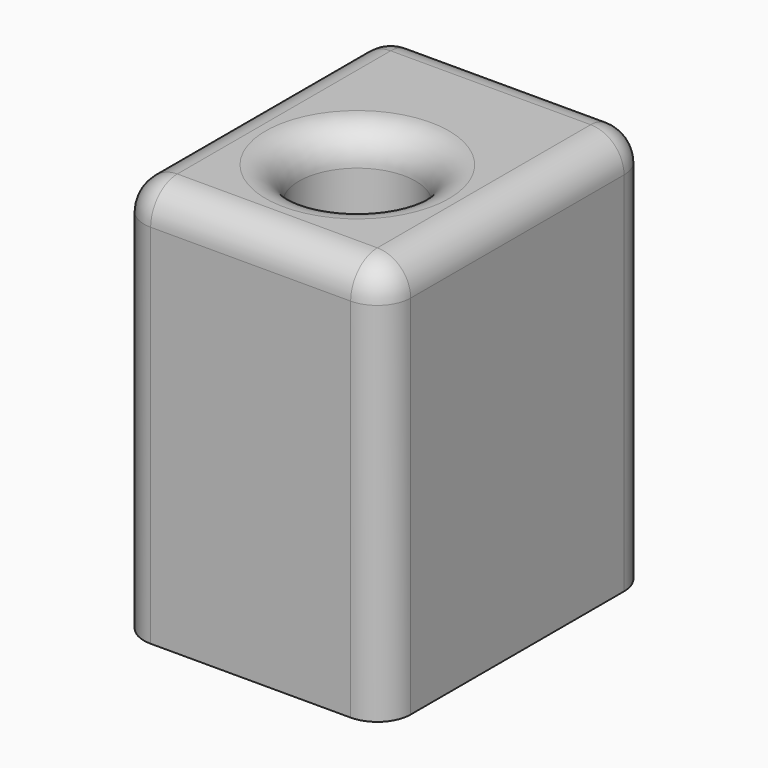
from build123d import *

# Parameters (mm, degrees)
F0_W     = 50.8
F0_H     = 63.5
F0_R     = 11.1125
F1_DEPTH = 38.1
F2_R     = 6.35


with BuildPart() as f1:
    # F0 (on Top) → F1 (new body, symmetric)
    with BuildSketch(Plane.XY):
        with Locations((-25.4, 31.75)):
            Rectangle(F0_W, F0_H)
        with Locations((-25.4, 25.4)):
            Circle(F0_R, mode=Mode.SUBTRACT)
    extrude(amount=F1_DEPTH, both=True)

    # F2
    f2_edges = [f1.edges().sort_by_distance(p)[0] for p in [
        (-50.8, 63.5, 0),
        (0, 63.5, 0),
        (-50.8, 0, 0),
        (0, 0, 0),
        (-25.4, 0, 38.1),
        (0, 31.75, 38.1),
        (-25.4, 63.5, 38.1),
        (-50.8, 31.75, 38.1),
        (-36.5125, 25.4, 38.1),
    ]]
    fillet(f2_edges, radius=F2_R)


solid = f1.part
